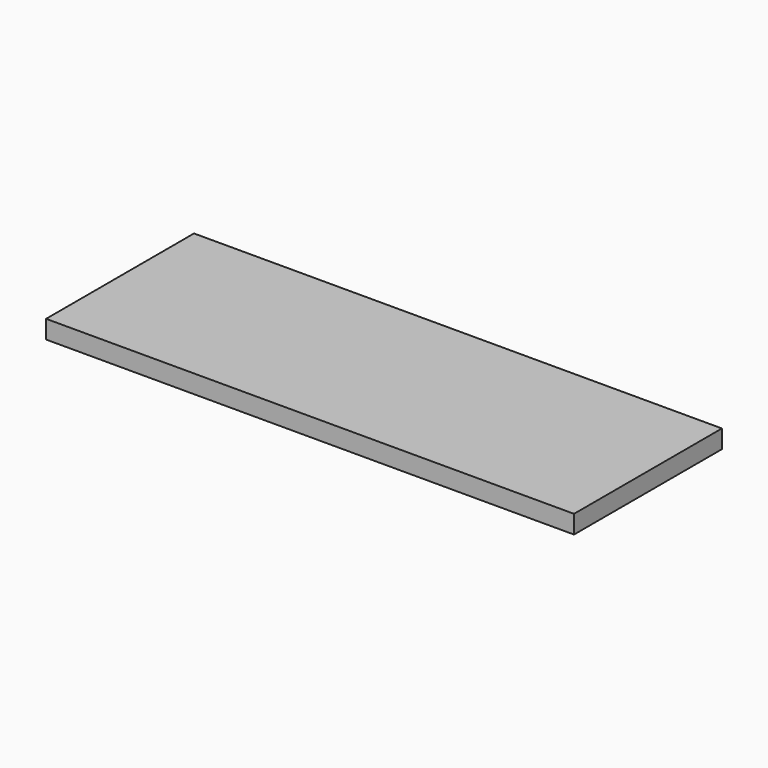
from build123d import *

# Parameters (mm, degrees)
SKETCH_W  = 289.099946
SKETCH_H  = 101.25
PAD_DEPTH = 10


with BuildPart() as part:
    # Sketch → Pad (new body)
    with BuildSketch(Plane.XY):
        Rectangle(SKETCH_W, SKETCH_H)
    extrude(amount=PAD_DEPTH)


with BuildPart() as part_1:
    # Body placement: moved
    add(part.part.moved(Location((144.549973, 50.625, 0))))


solid = part_1.part
